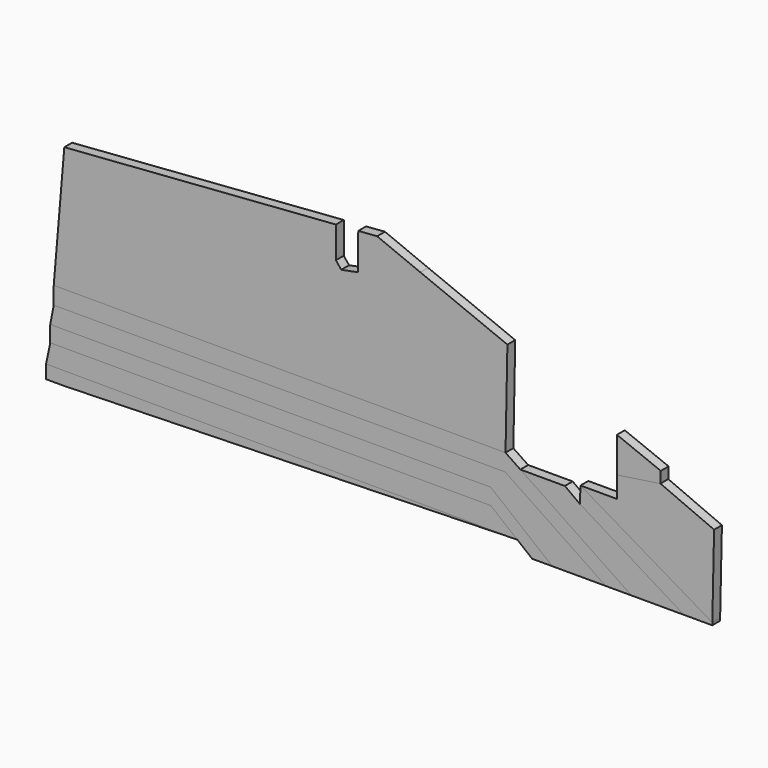
from build123d import *

# Parameters (mm, degrees)
F2_DEPTH = 2.54
F3_DEPTH = 2.54
F4_DEPTH = 2.54


with BuildPart() as f2:
    # F1 (on Front) → F2 (new body)
    with BuildSketch(Plane.XZ):
        Polygon((-81.5809369087, -75.475230813), (-81.5809369087, -78.9611507207), (-76.8478065729, -78.9611507207), (40.7279980952, -75.8449060952), (-76.8508296104, -75.489527428), align=None)
    extrude(amount=F2_DEPTH)


with BuildPart() as f2b:
    # F1 (on Front) → F2, piece 2 (new body)
    with BuildSketch(Plane.XZ):
        Polygon((-80.502524972, -66.0951957107), (-80.502524972, -70.2834948897), (33.8043898155, -70.2834948897), (33.8043898155, -66.0951957107), (-76.8478065729, -66.0951957107), align=None)
        Polygon((40.7279980952, -75.8449060952), (44.6075272818, -78.9611507207), (49.8216971755, -78.9611507207), (33.8043898155, -66.0951957107), (33.8043898155, -70.2834948897), align=None)
    extrude(amount=F2_DEPTH)


with BuildPart() as f2c:
    # F1 (on Front) → F2, piece 3 (new body)
    with BuildSketch(Plane.XZ):
        Polygon((-79.5916989446, -56.857869029), (-79.5916989446, -61.3922838997), (37.5950161402, -61.3922838997), (37.6818398776, -56.9604443388), (-76.8478065729, -56.857869029), align=None)
        Polygon((70.3608468175, -78.9611507207), (41.5360555053, -59.5552437007), (37.6818398776, -56.9604443388), (37.5950161402, -61.3922838997), (41.5360555053, -64.045536187), (63.6911382739, -78.9611507207), align=None)
    extrude(amount=F2_DEPTH)


with BuildPart() as f2d:
    # F1 (on Front) → F2, piece 4 (new body)
    with BuildSketch(Plane.XZ):
        Polygon((84.0048193932, -78.9611507207), (91.3462505137, -78.9611507207), (91.3604190266, -78.3069566897), (57.1301339189, -58.1292634916), (57.0081882179, -62.4165274203), align=None)
    extrude(amount=F2_DEPTH)


with BuildPart() as f3:
    # F1 (on Front) → F3 (new body)
    with BuildSketch(Plane.XZ):
        Polygon((-80.502524972, -70.2834948897), (-81.5809369087, -75.475230813), (-76.8508296104, -75.489527428), (40.7279980952, -75.8449060952), (33.8043898155, -70.2834948897), align=None)
    extrude(amount=F3_DEPTH)


with BuildPart() as f3b:
    # F1 (on Front) → F3, piece 2 (new body)
    with BuildSketch(Plane.XZ):
        Polygon((-79.5916989446, -61.3922838997), (-80.502524972, -66.0951957107), (-76.8478065729, -66.0951957107), (33.8043898155, -66.0951957107), (37.5950161402, -61.3922838997), align=None)
        Polygon((33.8043898155, -66.0951957107), (49.8216971755, -78.9611507207), (63.6911382739, -78.9611507207), (41.5360555053, -64.045536187), (37.5950161402, -61.3922838997), align=None)
    extrude(amount=F3_DEPTH)


with BuildPart() as f3c:
    # F1 (on Front) → F3, piece 3 (new body)
    with BuildSketch(Plane.XZ):
        Polygon((-76.8478065729, -56.857869029), (37.6818398776, -56.9604443388), (38.1688700454, -32.1004276141), (15.5460650954, -22.922502523), (4.3514288481, -18.339421304), (-0.5417316434, -18.7043742442), (-0.6745784194, -28.1983297318), (-4.9593360163, -29.0225408971), (-6.3414964825, -27.3002255708), (-6.3414964825, -19.1369456332), (-76.8478065729, -24.3956092745), (-79.5916989446, -56.857869029), align=None)
    extrude(amount=F3_DEPTH)


with BuildPart() as f3d:
    # F1 (on Front) → F3, piece 4 (new body)
    with BuildSketch(Plane.XZ):
        Polygon((57.0081882179, -62.4165274203), (53.0871674418, -59.5552437007), (41.5360555053, -59.5552437007), (70.3608468175, -78.9611507207), (84.0048193932, -78.9611507207), align=None)
    extrude(amount=F3_DEPTH)


with BuildPart() as f3e:
    # F1 (on Front) → F3, piece 5 (new body)
    with BuildSketch(Plane.XZ):
        Polygon((66.588590586, -52.6390053676), (77.8948708858, -50.9487634999), (77.9784285914, -48.0111122798), (66.596809519, -43.4622210421), align=None)
    extrude(amount=F3_DEPTH)


with BuildPart() as f4:
    # F1 (on Front) → F4 (new body)
    with BuildSketch(Plane.XZ):
        Polygon((57.1301339189, -58.1292634916), (91.3604190266, -78.3069566897), (91.8230438345, -56.9464661404), (86.9714392032, -54.8572845934), (77.8948708858, -50.9487634999), (66.588590586, -52.6390053676), (66.5836733882, -58.1292634916), align=None)
    extrude(amount=F4_DEPTH)


solid = Compound([f2.part, f2b.part, f2c.part, f2d.part, f3.part, f3b.part, f3c.part, f3d.part, f3e.part, f4.part])
